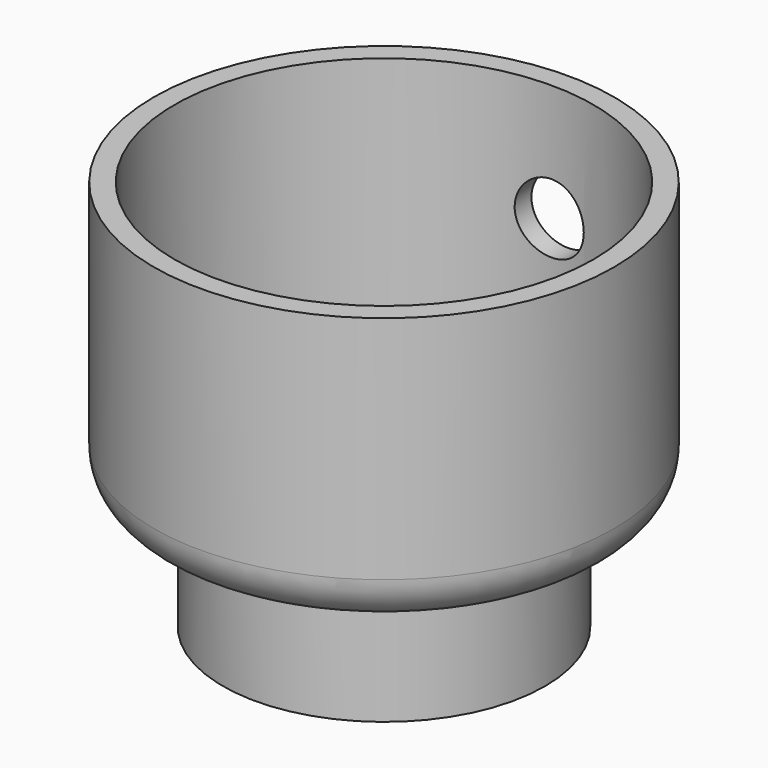
from build123d import *

# Parameters (mm, degrees)
SKETCH_R        = 10
PAD_DEPTH       = 12
SKETCH001_R     = 9.1
POCKET_DEPTH    = 10
SKETCH002_R     = 7
PAD001_DEPTH    = 5
SKETCH003_R     = 6
POCKET001_DEPTH = 4
FILLET_R        = 2
SKETCH004_R     = 1.5
POCKET002_DEPTH = 11


with BuildPart() as part:
    # Sketch → Pad (new body)
    with BuildSketch(Plane.XY):
        Circle(SKETCH_R)
    extrude(amount=PAD_DEPTH)

    # Sketch001 (on Face3 of Pad) → Pocket (cut)
    with BuildSketch(Plane.XY.offset(12)):
        Circle(SKETCH001_R)
    extrude(amount=-POCKET_DEPTH, mode=Mode.SUBTRACT)

    # Sketch002 (on Face2 of Pocket) → Pad001 (join)
    with BuildSketch(Plane(origin=(0, 0, 0), x_dir=(1, 0, 0), z_dir=(0, 0, -1))):
        Circle(SKETCH002_R)
    extrude(amount=PAD001_DEPTH)

    # Sketch003 (on Face6 of Pad001) → Pocket001 (cut)
    with BuildSketch(Plane(origin=(0, 0, -5), x_dir=(1, 0, 0), z_dir=(0, 0, -1))):
        Circle(SKETCH003_R)
    extrude(amount=-POCKET001_DEPTH, mode=Mode.SUBTRACT)

    # Fillet
    fillet_edges = [part.edges().sort_by_distance(p)[0] for p in [
        (-10, 0, 0),
    ]]
    fillet(fillet_edges, radius=FILLET_R)

    # Sketch004 → Pocket002 (cut)
    with BuildSketch(Plane.XZ):
        with Locations((-0.003423, 6.915163)):
            Circle(SKETCH004_R)
    extrude(amount=-POCKET002_DEPTH, mode=Mode.SUBTRACT)


solid = part.part
